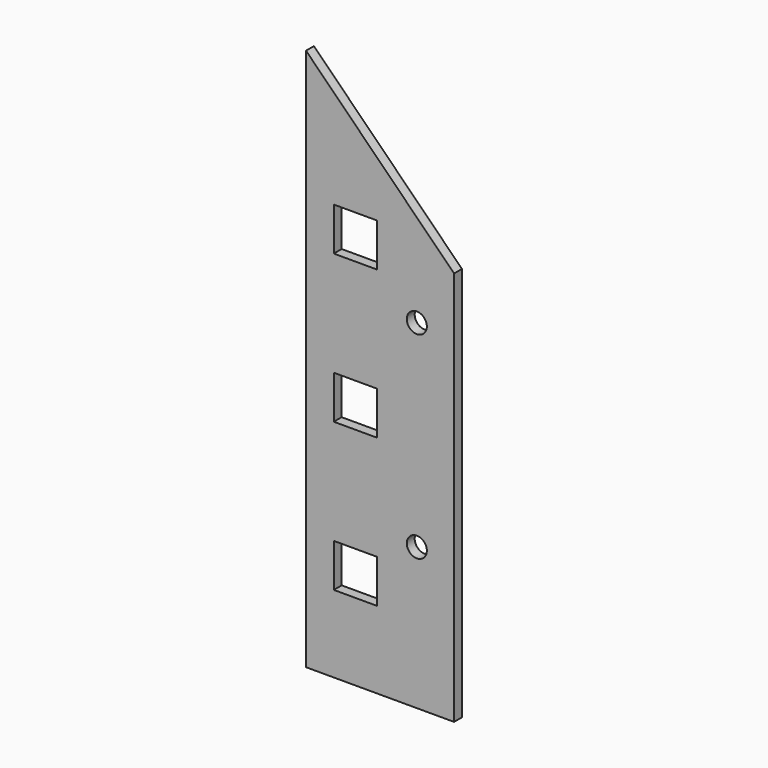
from build123d import *

# Parameters (mm, degrees)
F0_W     = 11.1125
F0_H     = 11.1125
F0_R     = 2.579688
F1_DEPTH = 1.27


with BuildPart() as f1:
    # F0 (on Front) → F1 (new body, symmetric)
    with BuildSketch(Plane.XZ):
        Polygon((0, 139.7), (0, 0), (38.1, 0), (38.1, 101.6), align=None)
        with Locations((12.7, 25.4)):
            Rectangle(F0_W, F0_H, mode=Mode.SUBTRACT)
        with Locations((12.7, 63.5)):
            Rectangle(F0_W, F0_H, mode=Mode.SUBTRACT)
        with Locations((28.51277, 36.51377)):
            Circle(F0_R, mode=Mode.SUBTRACT)
        with Locations((12.7, 101.6)):
            Rectangle(F0_W, F0_H, mode=Mode.SUBTRACT)
        with Locations((28.51277, 87.31377)):
            Circle(F0_R, mode=Mode.SUBTRACT)
    extrude(amount=F1_DEPTH, both=True)


solid = f1.part
